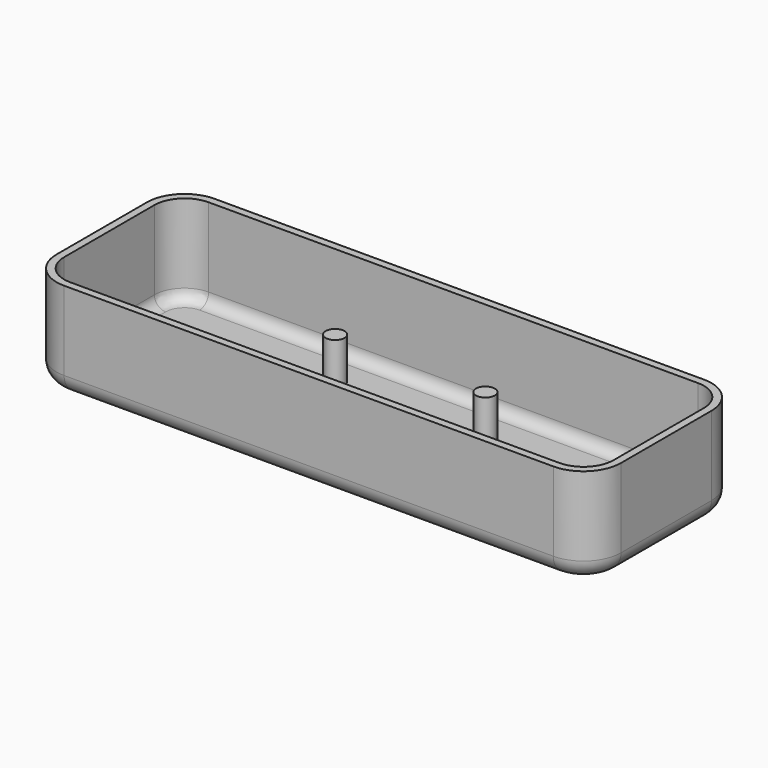
from build123d import *

# Parameters (mm, degrees)
PAD001_DEPTH = 26
FILLET_R     = 5
THICKNESS_T  = -2
SKETCH010_R  = 2.5
PAD004_DEPTH = 11


with BuildPart() as part:
    # Sketch002 → Pad001 (new body)
    with BuildSketch(Plane.XY):
        with BuildLine():
            Line((10, 0), (140, 0))
            ThreePointArc((140, 0), (147.071068, 2.928932), (150, 10))
            Line((150, 10), (150, 40))
            ThreePointArc((150, 40), (147.071068, 47.071068), (140, 50))
            Line((140, 50), (10, 50))
            ThreePointArc((10, 50), (2.928932, 47.071068), (0, 40))
            Line((0, 40), (0, 10))
            ThreePointArc((0, 10), (2.928932, 2.928932), (10, 0))
        make_face()
    extrude(amount=PAD001_DEPTH)

    # Fillet
    fillet_edges = [part.edges().sort_by_distance(p)[0] for p in [
        (75, 0, 0),
    ]]
    fillet(fillet_edges, radius=FILLET_R)

    # Thickness
    thickness_openings = [part.faces().sort_by_distance(p)[0] for p in [
        (75, 25, 26),
    ]]
    offset(amount=THICKNESS_T, openings=thickness_openings)

    # Sketch010 (on Face28 of Thickness) → Pad004 (join)
    with BuildSketch(Plane.XY.offset(2)):
        with Locations((52, 37.5)):
            Circle(SKETCH010_R)
        with Locations((92.5, 36.8)):
            Circle(SKETCH010_R)
        with Locations((121, 11.2)):
            Circle(SKETCH010_R)
        with Locations((31, 11.2)):
            Circle(SKETCH010_R)
    extrude(amount=PAD004_DEPTH)


solid = part.part
